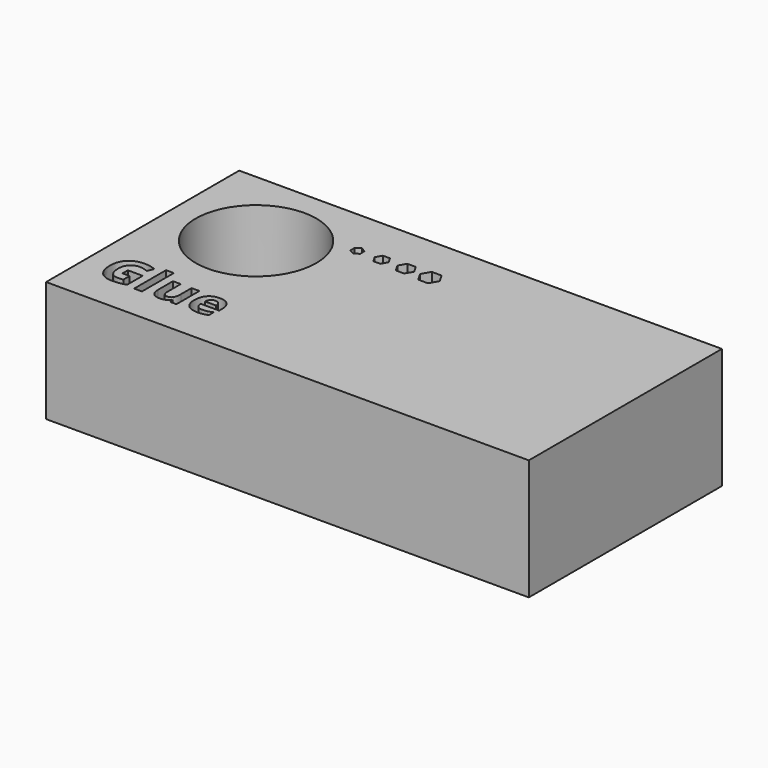
from build123d import *

# Parameters (mm, degrees)
F0_W     = 100
F0_H     = 50
F0_W_2   = 1.6192061982
F0_H_2   = 8.2625390784
F0_R     = 12.5
F1_DEPTH = 25


with BuildPart() as f1:
    # F0 (on Top) → F1 (new body)
    with BuildSketch(Plane.XY):
        Rectangle(F0_W, F0_H)
        with BuildLine():
            Line((-42.2444701954, -14.905312297), (-42.2444701954, -13.534169168))
            Line((-42.2444701954, -13.534169168), (-39.164070576, -13.534169168))
            Line((-39.164070576, -13.534169168), (-39.164070576, -17.5592473249))
            add(Edge.make_bspline(
                [(-39.164070576, -17.5592473249), (-39.9133569699, -17.8039122698), (-40.5742921337, -17.9024578727)],
                knots=[0, 0, 0, 1, 1, 1], degree=2))
            add(Edge.make_bspline(
                [(-40.5742921337, -17.9024578727), (-41.2352272975, -18.0010034755), (-41.9250465173, -18.0010034755)],
                knots=[0, 0, 0, 1, 1, 1], degree=2))
            add(Edge.make_bspline(
                [(-41.9250465173, -18.0010034755), (-43.681876747, -18.0010034755), (-44.6087151322, -16.9679737079)],
                knots=[0, 0, 0, 1, 1, 1], degree=2))
            add(Edge.make_bspline(
                [(-44.6087151322, -16.9679737079), (-45.5355535174, -15.9349439404), (-45.5355535174, -14.0014112504)],
                knots=[0, 0, 0, 1, 1, 1], degree=2))
            add(Edge.make_bspline(
                [(-45.5355535174, -14.0014112504), (-45.5355535174, -12.1222485482), (-44.4600471969, -11.0713786284)],
                knots=[0, 0, 0, 1, 1, 1], degree=2))
            add(Edge.make_bspline(
                [(-44.4600471969, -11.0713786284), (-43.3845408764, -10.0205087086), (-41.4798922425, -10.0205087086)],
                knots=[0, 0, 0, 1, 1, 1], degree=2))
            add(Edge.make_bspline(
                [(-41.4798922425, -10.0205087086), (-40.2837525116, -10.0205087086), (-39.1742649487, -10.4979451637)],
                knots=[0, 0, 0, 1, 1, 1], degree=2))
            Line((-39.1742649487, -10.4979451637), (-39.7213629506, -11.8147183049))
            add(Edge.make_bspline(
                [(-39.7213629506, -11.8147183049), (-40.5708940095, -11.3899527755), (-41.4900866152, -11.3899527755)],
                knots=[0, 0, 0, 1, 1, 1], degree=2))
            add(Edge.make_bspline(
                [(-41.4900866152, -11.3899527755), (-42.5570976251, -11.3899527755), (-43.1993431056, -12.1069569892)],
                knots=[0, 0, 0, 1, 1, 1], degree=2))
            add(Edge.make_bspline(
                [(-43.1993431056, -12.1069569892), (-43.8415885861, -12.8239612028), (-43.8415885861, -14.0336934306)],
                knots=[0, 0, 0, 1, 1, 1], degree=2))
            add(Edge.make_bspline(
                [(-43.8415885861, -14.0336934306), (-43.8415885861, -15.2977956462), (-43.3242241712, -15.9638279964)],
                knots=[0, 0, 0, 1, 1, 1], degree=2))
            add(Edge.make_bspline(
                [(-43.3242241712, -15.9638279964), (-42.8068597564, -16.6298603465), (-41.819704666, -16.6298603465)],
                knots=[0, 0, 0, 1, 1, 1], degree=2))
            add(Edge.make_bspline(
                [(-41.819704666, -16.6298603465), (-41.3031897822, -16.6298603465), (-40.7730824015, -16.5245184952)],
                knots=[0, 0, 0, 1, 1, 1], degree=2))
            Line((-40.7730824015, -16.5245184952), (-40.7730824015, -14.905312297))
            Line((-40.7730824015, -14.905312297), (-42.2444701954, -14.905312297))
        make_face(mode=Mode.SUBTRACT)
        with BuildLine():
            Line((-28.6791582476, -17.8939625621), (-29.9211726557, -17.8939625621))
            Line((-29.9211726557, -17.8939625621), (-30.1386526067, -17.1344817955))
            Line((-30.1386526067, -17.1344817955), (-30.2236057126, -17.1344817955))
            add(Edge.make_bspline(
                [(-30.2236057126, -17.1344817955), (-30.4835622166, -17.5490529522), (-30.9618482028, -17.7750282138)],
                knots=[0, 0, 0, 1, 1, 1], degree=2))
            add(Edge.make_bspline(
                [(-30.9618482028, -17.7750282138), (-31.4401341889, -18.0010034755), (-32.0500974892, -18.0010034755)],
                knots=[0, 0, 0, 1, 1, 1], degree=2))
            add(Edge.make_bspline(
                [(-32.0500974892, -18.0010034755), (-33.0967197537, -18.0010034755), (-33.6276766655, -17.4403129767)],
                knots=[0, 0, 0, 1, 1, 1], degree=2))
            add(Edge.make_bspline(
                [(-33.6276766655, -17.4403129767), (-34.1586335772, -16.8796224778), (-34.1586335772, -15.8279030269)],
                knots=[0, 0, 0, 1, 1, 1], degree=2))
            Line((-34.1586335772, -15.8279030269), (-34.1586335772, -11.9574395228))
            Line((-34.1586335772, -11.9574395228), (-32.5394273791, -11.9574395228))
            Line((-32.5394273791, -11.9574395228), (-32.5394273791, -15.4252253051))
            add(Edge.make_bspline(
                [(-32.5394273791, -15.4252253051), (-32.5394273791, -16.0674707855), (-32.3109035242, -16.3885935258)],
                knots=[0, 0, 0, 1, 1, 1], degree=2))
            add(Edge.make_bspline(
                [(-32.3109035242, -16.3885935258), (-32.0823796694, -16.709716266), (-31.5828554068, -16.709716266)],
                knots=[0, 0, 0, 1, 1, 1], degree=2))
            add(Edge.make_bspline(
                [(-31.5828554068, -16.709716266), (-30.9032305597, -16.709716266), (-30.6007975028, -16.2560666806)],
                knots=[0, 0, 0, 1, 1, 1], degree=2))
            add(Edge.make_bspline(
                [(-30.6007975028, -16.2560666806), (-30.2983644458, -15.8024170952), (-30.2983644458, -14.7506976443)],
                knots=[0, 0, 0, 1, 1, 1], degree=2))
            Line((-30.2983644458, -14.7506976443), (-30.2983644458, -11.9574395228))
            Line((-30.2983644458, -11.9574395228), (-28.6791582476, -11.9574395228))
            Line((-28.6791582476, -11.9574395228), (-28.6791582476, -17.8939625621))
        make_face(mode=Mode.SUBTRACT)
        with Locations((-36.6350166138, -13.7626930229)):
            Rectangle(F0_W_2, F0_H_2, mode=Mode.SUBTRACT)
        with BuildLine():
            add(Edge.make_bspline(
                [(-23.1147298121, -17.8973606863), (-23.5972634536, -18.0010034755), (-24.2938789218, -18.0010034755)],
                knots=[0, 0, 0, 1, 1, 1], degree=2))
            add(Edge.make_bspline(
                [(-24.2938789218, -18.0010034755), (-25.726188287, -18.0010034755), (-26.533242793, -17.2092405286)],
                knots=[0, 0, 0, 1, 1, 1], degree=2))
            add(Edge.make_bspline(
                [(-26.533242793, -17.2092405286), (-27.3402972989, -16.4174775818), (-27.3402972989, -14.9681775954)],
                knots=[0, 0, 0, 1, 1, 1], degree=2))
            add(Edge.make_bspline(
                [(-27.3402972989, -14.9681775954), (-27.3402972989, -13.476401056), (-26.5944090292, -12.6617007706)],
                knots=[0, 0, 0, 1, 1, 1], degree=2))
            add(Edge.make_bspline(
                [(-26.5944090292, -12.6617007706), (-25.8485207595, -11.8470004852), (-24.5317476183, -11.8470004852)],
                knots=[0, 0, 0, 1, 1, 1], degree=2))
            add(Edge.make_bspline(
                [(-24.5317476183, -11.8470004852), (-23.2744416512, -11.8470004852), (-22.5735785276, -12.5631551678)],
                knots=[0, 0, 0, 1, 1, 1], degree=2))
            add(Edge.make_bspline(
                [(-22.5735785276, -12.5631551678), (-21.8727154041, -13.2793098504), (-21.8727154041, -14.543412066)],
                knots=[0, 0, 0, 1, 1, 1], degree=2))
            Line((-21.8727154041, -14.543412066), (-21.8727154041, -15.3300778265))
            Line((-21.8727154041, -15.3300778265), (-25.7007023553, -15.3300778265))
            add(Edge.make_bspline(
                [(-25.7007023553, -15.3300778265), (-25.6735173614, -16.0198970462), (-25.2912283849, -16.4072832091)],
                knots=[0, 0, 0, 1, 1, 1], degree=2))
            add(Edge.make_bspline(
                [(-25.2912283849, -16.4072832091), (-24.9089394084, -16.7946693719), (-24.2191201886, -16.7946693719)],
                knots=[0, 0, 0, 1, 1, 1], degree=2))
            add(Edge.make_bspline(
                [(-24.2191201886, -16.7946693719), (-23.6822165594, -16.7946693719), (-23.2047801044, -16.6833808032)],
                knots=[0, 0, 0, 1, 1, 1], degree=2))
            add(Edge.make_bspline(
                [(-23.2047801044, -16.6833808032), (-22.7273436493, -16.5720922345), (-22.2074306413, -16.3274272896)],
                knots=[0, 0, 0, 1, 1, 1], degree=2))
            Line((-22.2074306413, -16.3274272896), (-22.2074306413, -17.5813351324))
            add(Edge.make_bspline(
                [(-22.2074306413, -17.5813351324), (-22.6321961707, -17.7937178971), (-23.1147298121, -17.8973606863)],
                knots=[0, 0, 0, 1, 1, 1], degree=2))
        make_face(mode=Mode.SUBTRACT)
        with Locations((-32.5, 7.5)):
            Circle(F0_R, mode=Mode.SUBTRACT)
        Polygon((-16.5084793183, 15.6000386243), (-16.4821071673, 14.4456392813), (-17.4686602488, 13.8456006571), (-18.4815854815, 14.3999613757), (-18.5079576325, 15.5543607187), (-17.521404551, 16.1543993429), align=None, mode=Mode.SUBTRACT)
        Polygon((-13.9384080729, 15), (-13.2167202364, 16.25), (-11.7733445634, 16.25), (-11.0516567269, 15), (-11.7733445634, 13.75), (-13.2167202364, 13.75), align=None, mode=Mode.SUBTRACT)
        Polygon((-6.6290069961, 16.5), (-5.7629815923, 15), (-6.6290069961, 13.5), (-8.3610578037, 13.5), (-9.2270832075, 15), (-8.3610578037, 16.5), align=None, mode=Mode.SUBTRACT)
        Polygon((-1.4846694288, 16.75), (-0.4743064577, 15), (-1.4846694288, 13.25), (-3.505395371, 13.25), (-4.5157583421, 15), (-3.505395371, 16.75), align=None, mode=Mode.SUBTRACT)
    extrude(amount=F1_DEPTH)


with BuildPart() as f1b:
    # F0 (on Top) → F1, piece 2 (new body)
    with BuildSketch(Plane.XY):
        with BuildLine():
            add(Edge.make_bspline(
                [(-23.704304367, -13.3251845276), (-24.0067374239, -12.998964601), (-24.5215532456, -12.998964601)],
                knots=[0, 0, 0, 1, 1, 1], degree=2))
            add(Edge.make_bspline(
                [(-24.5215532456, -12.998964601), (-25.0363690673, -12.998964601), (-25.3286077515, -13.3251845276)],
                knots=[0, 0, 0, 1, 1, 1], degree=2))
            add(Edge.make_bspline(
                [(-25.3286077515, -13.3251845276), (-25.6208464357, -13.6514044542), (-25.6633229887, -14.2511733817)],
                knots=[0, 0, 0, 1, 1, 1], degree=2))
            Line((-25.6633229887, -14.2511733817), (-23.3899778752, -14.2511733817))
            add(Edge.make_bspline(
                [(-23.3899778752, -14.2511733817), (-23.40187131, -13.6514044542), (-23.704304367, -13.3251845276)],
                knots=[0, 0, 0, 1, 1, 1], degree=2))
        make_face()
    extrude(amount=F1_DEPTH)


solid = Compound([f1.part, f1b.part])
